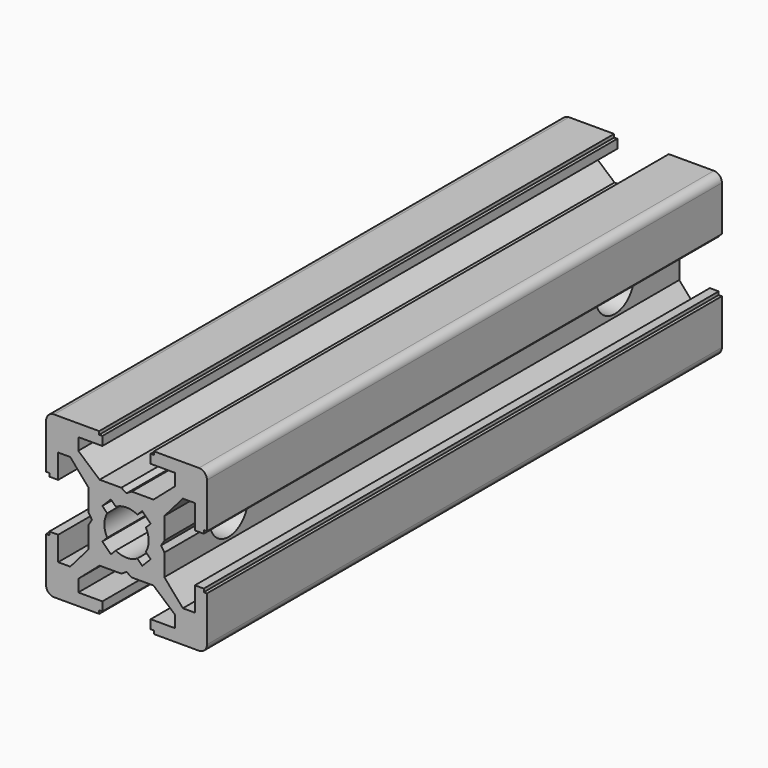
from build123d import *

# Parameters (mm, degrees)
PAD_DEPTH          = 80
POCKET_DEPTH       = 80
POLARPATTERN_COUNT = 4
POCKET001_DEPTH    = 80
SKETCH003_R        = 3
POCKET002_DEPTH    = 20
SKETCH004_R        = 5
POCKET003_DEPTH    = 3
POCKET004_DEPTH    = 3


with BuildPart() as pocket002:
    # Sketch → Pad (new body)
    with BuildSketch(Plane.XZ):
        with BuildLine():
            Line((-9, 10), (9, 10))
            ThreePointArc((10, 9), (9.707107, 9.707107), (9, 10))
            Line((10, 9), (10, -9))
            ThreePointArc((9, -10), (9.707107, -9.707107), (10, -9))
            Line((9, -10), (-9, -10))
            ThreePointArc((-10, -9), (-9.707107, -9.707107), (-9, -10))
            Line((-10, -9), (-10, 9))
            ThreePointArc((-9, 10), (-9.707107, 9.707107), (-10, 9))
        make_face()
    extrude(amount=PAD_DEPTH)

    # Sketch001 (on Face10 of Pad) → Pocket (cut)
    with BuildSketch(Plane.XZ.offset(80)):
        Polygon((-3.4, 10), (-3.4, 9.6), (-3, 9.6), (-3, 8.5), (-6, 8.5), (-6, 7), (-3.35, 4.7), (-0.65, 4.7), (0, 4.3), (0.65, 4.7), (3.35, 4.7), (6, 7), (6, 8.5), (3, 8.5), (3, 9.6), (3.4, 9.6), (3.4, 10), align=None)
    pocket = extrude(amount=-POCKET_DEPTH, mode=Mode.SUBTRACT)

    # PolarPattern: Pocket ×4 about axis
    polarpattern_axis = Axis((0, -80, 0), (0, -1, 0))
    for i in range(1, POLARPATTERN_COUNT):
        add(pocket.rotate(polarpattern_axis, i * 360 / POLARPATTERN_COUNT), mode=Mode.SUBTRACT)

    # Sketch002 (on Face4 of PolarPattern) → Pocket001 (cut)
    with BuildSketch(Plane.XZ.offset(80)):
        with BuildLine():
            ThreePointArc((1.340499, 2.401159), (0, 2.75), (-1.340499, 2.401159))
            Line((-1.944544, 3.005204), (-1.340499, 2.401159))
            Line((-3.005204, 1.944544), (-1.944544, 3.005204))
            Line((-2.401159, 1.340499), (-3.005204, 1.944544))
            ThreePointArc((-2.401159, 1.340499), (-2.75, 0), (-2.401159, -1.340499))
            Line((-3.005204, -1.944544), (-2.401159, -1.340499))
            Line((-1.944544, -3.005204), (-3.005204, -1.944544))
            Line((-1.340499, -2.401159), (-1.944544, -3.005204))
            ThreePointArc((-1.340499, -2.401159), (0, -2.75), (1.340499, -2.401159))
            Line((1.944544, -3.005204), (1.340499, -2.401159))
            Line((3.005204, -1.944544), (1.944544, -3.005204))
            Line((2.401159, -1.340499), (3.005204, -1.944544))
            ThreePointArc((2.401159, -1.340499), (2.75, 0), (2.401159, 1.340499))
            Line((2.401159, 1.340499), (3.005204, 1.944544))
            Line((3.005204, 1.944544), (1.944544, 3.005204))
            Line((1.944544, 3.005204), (1.340499, 2.401159))
        make_face()
    extrude(amount=-POCKET001_DEPTH, mode=Mode.SUBTRACT)

    # Sketch003 (on Face44 of Pocket001) → Pocket002 (cut)
    with BuildSketch(Plane(origin=(10, 0, 0), x_dir=(0, 0, 1), z_dir=(1, 0, 0))):
        with Locations((0, 10)):
            Circle(SKETCH003_R)
        with Locations((0, 70)):
            Circle(SKETCH003_R)
    extrude(amount=-POCKET002_DEPTH, mode=Mode.SUBTRACT)


with BuildPart() as pocket003:
    # Pocket003 base: copy of Pocket002
    add(pocket002.part)

    # Sketch004 (on Face37 of Pocket002) → Pocket003 (cut)
    with BuildSketch(Plane(origin=(-10, 0, 0), x_dir=(0, 0, -1), z_dir=(-1, 0, 0))):
        with Locations((0, 10)):
            Circle(SKETCH004_R)
        with Locations((0, 70)):
            Circle(SKETCH004_R)
    extrude(amount=-POCKET003_DEPTH, mode=Mode.SUBTRACT)


with BuildPart() as pocket004:
    # Pocket004 base: copy of Pocket002
    add(pocket002.part)

    # Sketch004 (on Face37 of Pocket002) → Pocket004 (cut)
    with BuildSketch(Plane(origin=(-10, 0, 0), x_dir=(0, 0, -1), z_dir=(-1, 0, 0))):
        with Locations((0, 10)):
            Circle(SKETCH004_R)
        with Locations((0, 70)):
            Circle(SKETCH004_R)
    extrude(amount=-POCKET004_DEPTH, mode=Mode.SUBTRACT)


solid = Compound([pocket003.part, pocket004.part])
